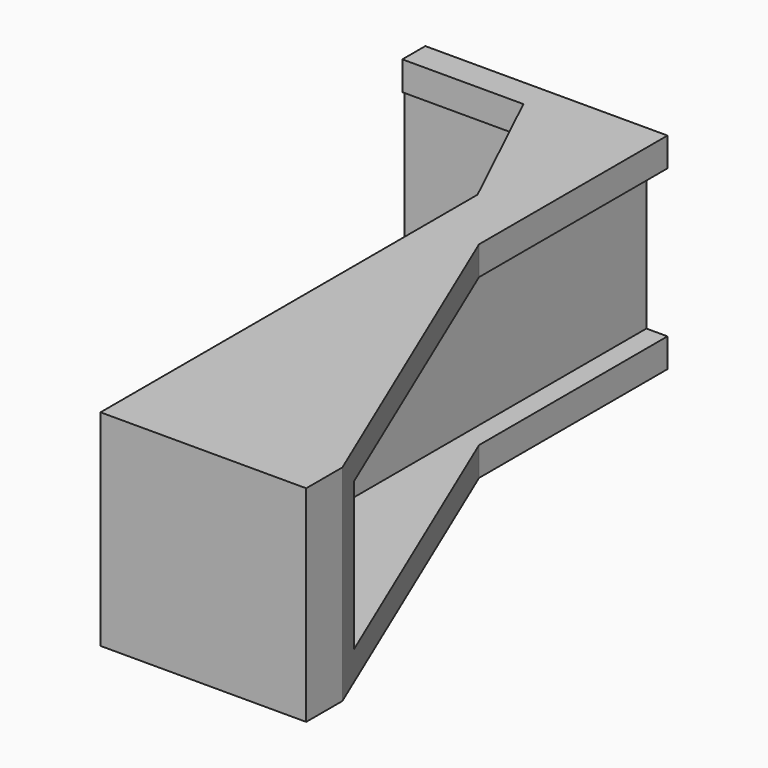
from build123d import *

# Parameters (mm, degrees)
F1_DEPTH = 20
F3_DEPTH = 150
F5_DEPTH = 50
F7_DEPTH = 54.463615
F9_DEPTH = 54.463615


with BuildPart() as f1:
    # F0 (on Front) → F1 (new body)
    with BuildSketch(Plane.XZ):
        Polygon((-28.408879, 27.231308), (-28.408879, 0), (-28.408879, -27.231308), (26.05374, -27.231308), (26.05374, 0), (26.05374, 27.231308), align=None)
    extrude(amount=F1_DEPTH)

    # F2 (on face) → F3 (join)
    with BuildSketch(Plane(origin=(0, 0, 0), x_dir=(-1, 0, 0), z_dir=(0, 1, 0))):
        Polygon((28.408879, -27.231308), (28.408879, 27.231308), (-26.05374, 27.231308), (-26.05374, 19.577103), (19.871499, 19.577103), (19.871499, 0), (19.871499, -19.577103), (-26.05374, -19.577103), (-26.05374, -27.231308), align=None)
    extrude(amount=F3_DEPTH)

    # F4 (on face) → F5 (join)
    with BuildSketch(Plane(origin=(-28.408879, 0, 0), x_dir=(0, -1, 0), z_dir=(-1, 0, 0))):
        Polygon((-150, 27.231308), (-150, 0), (-150, -27.231308), (-104.768693, -27.231308), (-104.768693, -19.577103), (-143.039733, -19.577103), (-143.039733, 0), (-143.039733, 19.577103), (-104.768693, 19.577103), (-104.768693, 27.231308), align=None)
    extrude(amount=F5_DEPTH)

    # F6 (on face) → F7 (cut, through all)
    with BuildSketch(Plane.XY.offset(27.231308)):
        Polygon((-14.289723, 87.620333), (26.05374, -8.034108), (26.05374, 150), (-14.289723, 150), align=None)
    extrude(amount=-F7_DEPTH, mode=Mode.SUBTRACT)

    # F8 (on face) → F9 (cut, through all)
    with BuildSketch(Plane.XY.offset(27.231308)):
        Polygon((-78.408879, 104.768693), (-28.408879, 104.768693), (-46.349301, 142.396316), (-78.408879, 142.396316), align=None)
    extrude(amount=-F9_DEPTH, mode=Mode.SUBTRACT)


solid = f1.part
